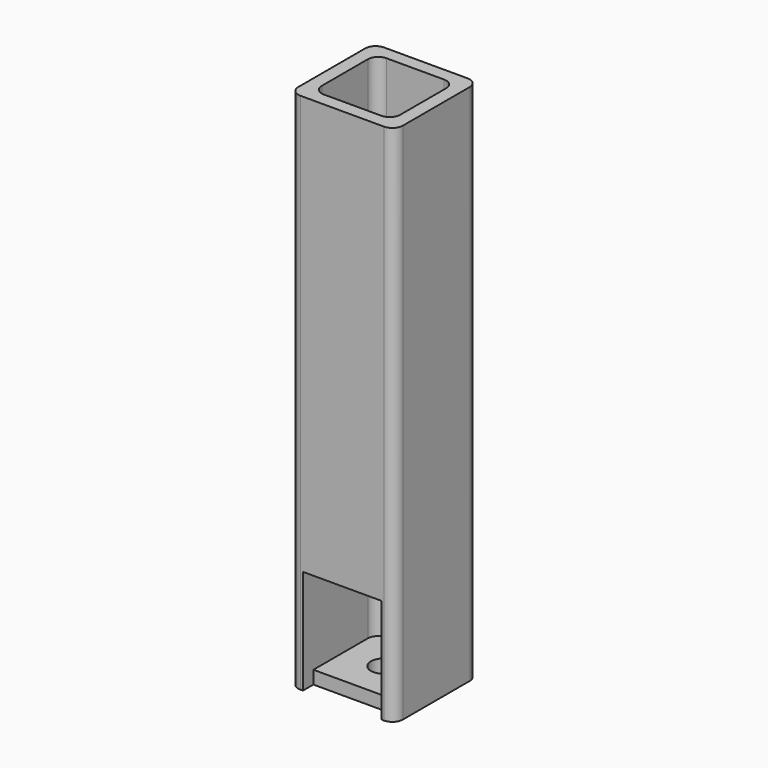
from build123d import *

# Parameters (mm, degrees)
F0_W     = 50.8
F0_H     = 50.8
F0_W_2   = 38.1
F0_H_2   = 38.1
F1_DEPTH = 254
F2_W     = 38.1
F2_H     = 50.8
F3_DEPTH = 6.35
F4_W     = 38.1
F4_H     = 38.1
F4_R     = 6.35
F5_DEPTH = 6.35
F6_R     = 5.08


with BuildPart() as f1:
    # F0 (on Top) → F1 (new body)
    with BuildSketch(Plane.XY):
        Rectangle(F0_W, F0_H)
        Rectangle(F0_W_2, F0_H_2, mode=Mode.SUBTRACT)
    extrude(amount=F1_DEPTH)

    # F2 (on face) → F3 (cut)
    with BuildSketch(Plane.XZ.offset(25.4)):
        with Locations((0, 25.4)):
            Rectangle(F2_W, F2_H)
    extrude(amount=-F3_DEPTH, mode=Mode.SUBTRACT)

    # F4 (on Top) → F5 (join)
    with BuildSketch(Plane.XY):
        Rectangle(F4_W, F4_H)
        Circle(F4_R, mode=Mode.SUBTRACT)
    extrude(amount=F5_DEPTH)

    # F6
    f6_edges = [f1.edges().sort_by_distance(p)[0] for p in [
        (-25.4, -25.4, 127),
        (-25.4, 25.4, 127),
        (25.4, -25.4, 127),
        (25.4, 25.4, 127),
        (-19.05, 19.05, 130.175),
        (19.05, 19.05, 130.175),
        (-19.05, -19.05, 152.4),
        (19.05, -19.05, 152.4),
    ]]
    fillet(f6_edges, radius=F6_R)


solid = f1.part
